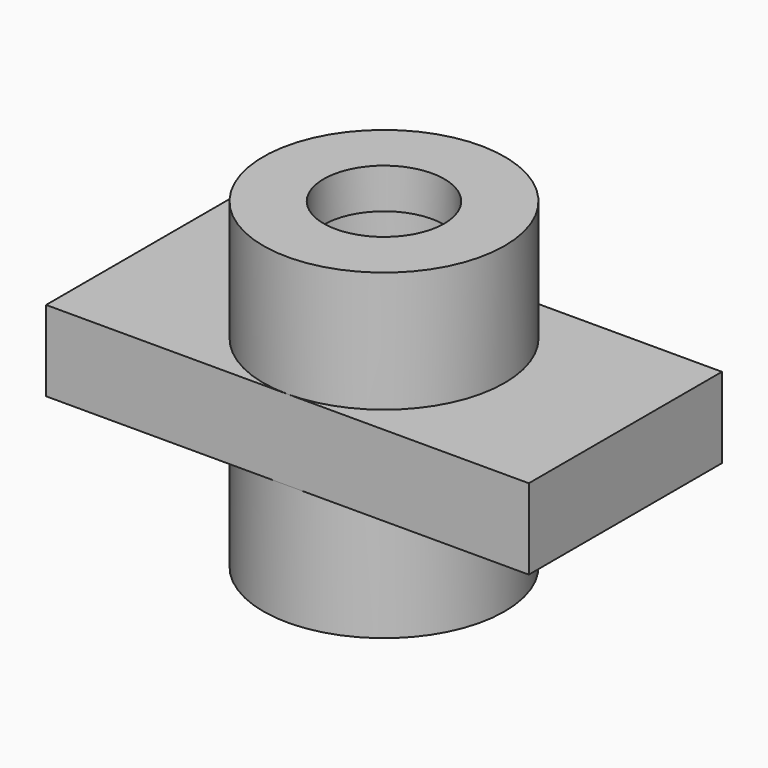
from build123d import *

# Parameters (mm, degrees)
F0_W      = 76.2
F0_H      = 12.7
F1_DEPTH  = 19.05
F2_R      = 19.05
F3_DEPTH  = 19.05
F4_R      = 19.05
F5_DEPTH  = 19.05
F6_R      = 9.525
F7_DEPTH  = 38.1
F8_R      = 12.7
F9_DEPTH  = 6.35
F10_R     = 9.525
F11_DEPTH = 6.35


with BuildPart() as f1:
    # F0 (on Front) → F1 (new body, symmetric)
    with BuildSketch(Plane.XZ):
        with Locations((0, 6.35)):
            Rectangle(F0_W, F0_H)
    extrude(amount=F1_DEPTH, both=True)

    # F2 (on Top) → F3 (join)
    with BuildSketch(Plane.XY):
        Circle(F2_R)
    extrude(amount=-F3_DEPTH)

    # F4 (on face) → F5 (join)
    with BuildSketch(Plane.XY.offset(12.7)):
        Circle(F4_R)
    extrude(amount=F5_DEPTH)

    # F6 (on face) → F7 (cut)
    with BuildSketch(Plane(origin=(0, 0, -19.05), x_dir=(1, 0, 0), z_dir=(0, 0, -1))):
        Circle(F6_R)
    extrude(amount=-F7_DEPTH, mode=Mode.SUBTRACT)

    # F8 (on face) → F9 (cut)
    with BuildSketch(Plane(origin=(0, 0, 19.05), x_dir=(1, 0, 0), z_dir=(0, 0, -1))):
        Circle(F8_R)
    extrude(amount=-F9_DEPTH, mode=Mode.SUBTRACT)

    # F10 (on face) → F11 (cut)
    with BuildSketch(Plane(origin=(0, 0, 25.4), x_dir=(1, 0, 0), z_dir=(0, 0, -1))):
        Circle(F10_R)
    extrude(amount=-F11_DEPTH, mode=Mode.SUBTRACT)


solid = f1.part
